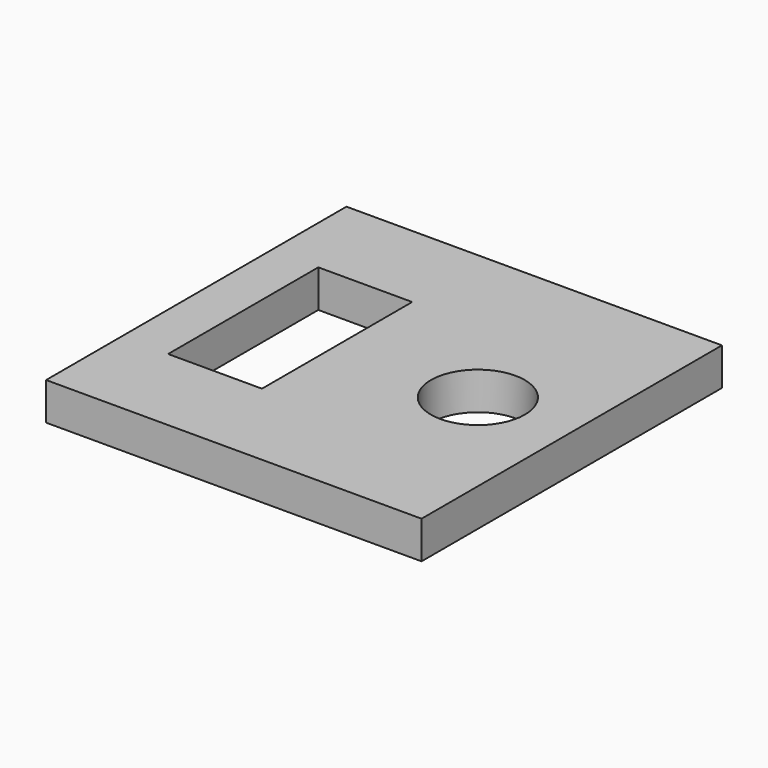
from build123d import *

# Parameters (mm, degrees)
F0_W     = 20
F0_H     = 20
F0_W_2   = 5
F0_H_2   = 10
F0_R     = 2.5
F1_DEPTH = 2


with BuildPart() as f1:
    # F0 (on Top) → F1 (new body)
    with BuildSketch(Plane.XY):
        Rectangle(F0_W, F0_H)
        with Locations((-5, 0)):
            Rectangle(F0_W_2, F0_H_2, mode=Mode.SUBTRACT)
        with Locations((5, 0)):
            Circle(F0_R, mode=Mode.SUBTRACT)
    extrude(amount=F1_DEPTH)


solid = f1.part
